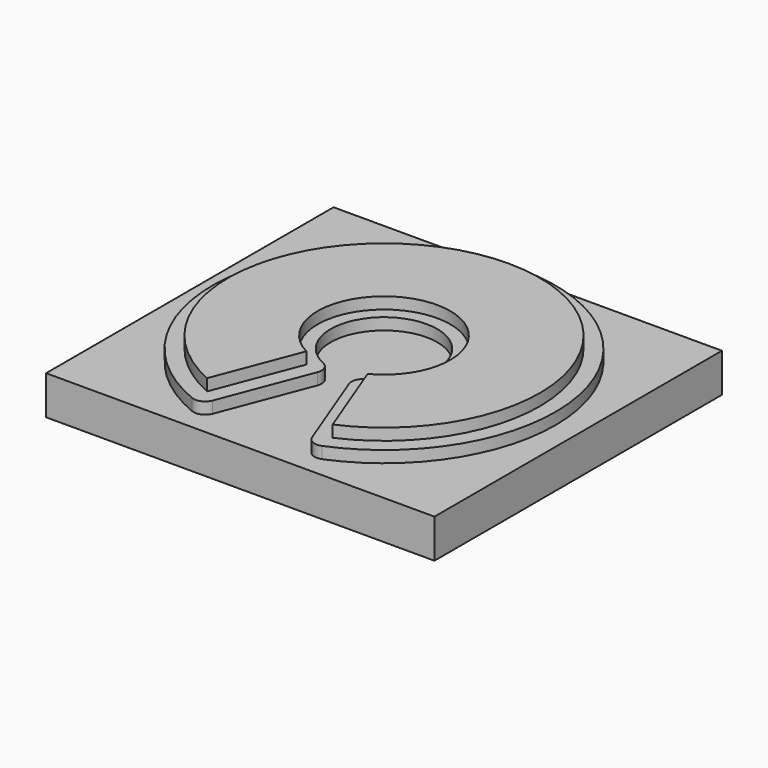
from build123d import *

# Parameters (mm, degrees)
F0_W     = 100
F0_H     = 92.5255602876
F1_DEPTH = 10
F2_DEPTH = 3
F3_DEPTH = 6
F4_R     = 3


with BuildPart() as f1:
    # F0 (on Top) → F1 (new body)
    with BuildSketch(Plane.XY):
        Rectangle(F0_W, F0_H)
        with BuildLine():
            ThreePointArc((-13.8530512527, -41.8971102989), (0, 44.1279376406), (13.8530512527, -41.8971102989))
            Line((13.8530512527, -41.8971102989), (2.9358495271, -13.4106839777))
            ThreePointArc((2.9358495271, -13.4106839777), (0, 13.7282794696), (-2.9358495271, -13.4106839777))
            Line((-2.9358495271, -13.4106839777), (-13.8530512527, -41.8971102989))
        make_face(mode=Mode.SUBTRACT)
        with BuildLine():
            Line((2.9358495271, -13.4106839777), (13.8530512527, -41.8971102989))
            ThreePointArc((13.8530512527, -41.8971102989), (0, 44.1279376406), (-13.8530512527, -41.8971102989))
            Line((-13.8530512527, -41.8971102989), (-2.9358495271, -13.4106839777))
            ThreePointArc((-2.9358495271, -13.4106839777), (0, 13.7282794696), (2.9358495271, -13.4106839777))
        make_face()
        with BuildLine():
            ThreePointArc((-16.157050142, -36.7314730169), (0, 40.1279376406), (16.157050142, -36.7314730169))
            Line((16.157050142, -36.7314730169), (7.8820297495, -15.1393320411))
            ThreePointArc((7.8820297495, -15.1393320411), (0, 17.0682678566), (-7.8820297495, -15.1393320411))
            Line((-7.8820297495, -15.1393320411), (-16.157050142, -36.7314730169))
        make_face(mode=Mode.SUBTRACT)
        with BuildLine():
            Line((7.8820297495, -15.1393320411), (16.157050142, -36.7314730169))
            ThreePointArc((16.157050142, -36.7314730169), (0, 40.1279376406), (-16.157050142, -36.7314730169))
            Line((-16.157050142, -36.7314730169), (-7.8820297495, -15.1393320411))
            ThreePointArc((-7.8820297495, -15.1393320411), (0, 17.0682678566), (7.8820297495, -15.1393320411))
        make_face()
    extrude(amount=-F1_DEPTH)

    # F0 (on Top) → F2 (join)
    with BuildSketch(Plane.XY):
        with BuildLine():
            Line((2.9358495271, -13.4106839777), (13.8530512527, -41.8971102989))
            ThreePointArc((13.8530512527, -41.8971102989), (0, 44.1279376406), (-13.8530512527, -41.8971102989))
            Line((-13.8530512527, -41.8971102989), (-2.9358495271, -13.4106839777))
            ThreePointArc((-2.9358495271, -13.4106839777), (0, 13.7282794696), (2.9358495271, -13.4106839777))
        make_face()
        with BuildLine():
            ThreePointArc((-16.157050142, -36.7314730169), (0, 40.1279376406), (16.157050142, -36.7314730169))
            Line((16.157050142, -36.7314730169), (7.8820297495, -15.1393320411))
            ThreePointArc((7.8820297495, -15.1393320411), (0, 17.0682678566), (-7.8820297495, -15.1393320411))
            Line((-7.8820297495, -15.1393320411), (-16.157050142, -36.7314730169))
        make_face(mode=Mode.SUBTRACT)
        with BuildLine():
            Line((7.8820297495, -15.1393320411), (16.157050142, -36.7314730169))
            ThreePointArc((16.157050142, -36.7314730169), (0, 40.1279376406), (-16.157050142, -36.7314730169))
            Line((-16.157050142, -36.7314730169), (-7.8820297495, -15.1393320411))
            ThreePointArc((-7.8820297495, -15.1393320411), (0, 17.0682678566), (7.8820297495, -15.1393320411))
        make_face()
    extrude(amount=F2_DEPTH)

    # F0 (on Top) → F3 (join)
    with BuildSketch(Plane.XY):
        with BuildLine():
            Line((7.8820297495, -15.1393320411), (16.157050142, -36.7314730169))
            ThreePointArc((16.157050142, -36.7314730169), (0, 40.1279376406), (-16.157050142, -36.7314730169))
            Line((-16.157050142, -36.7314730169), (-7.8820297495, -15.1393320411))
            ThreePointArc((-7.8820297495, -15.1393320411), (0, 17.0682678566), (7.8820297495, -15.1393320411))
        make_face()
    extrude(amount=F3_DEPTH)

    # F4
    f4_edges = [f1.edges().sort_by_distance(p)[0] for p in [
        (-2.93585, -13.410684, 1.5),
        (2.93585, -13.410684, 1.5),
        (13.853051, -41.89711, 1.5),
        (-13.853051, -41.89711, 1.5),
    ]]
    fillet(f4_edges, radius=F4_R)


solid = f1.part
